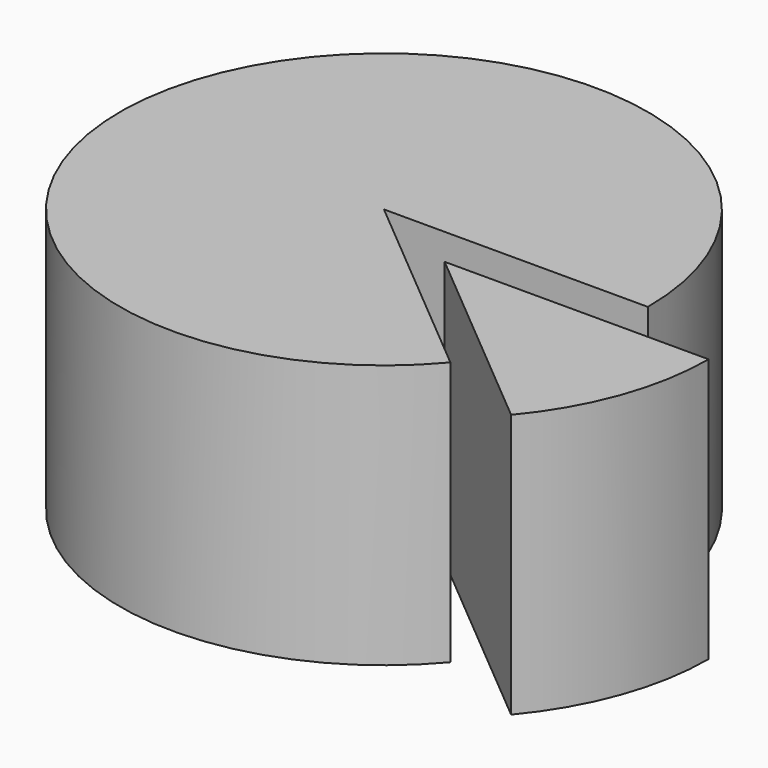
from build123d import *

# Parameters (mm, degrees)
CYLINDER_W        = 20
CYLINDER_H        = 20
CYLINDER_ANGLE    = 320
CYLINDER001_W     = 20
CYLINDER001_H     = 20
CYLINDER001_ANGLE = 320
CYLINDER002_R     = 20
CYLINDER002_DEPTH = 20


with BuildPart() as obj1:
    # Cylinder → Cylinder (revolve)
    with BuildSketch(Plane.XZ):
        with Locations((10, 10)):
            Rectangle(CYLINDER_W, CYLINDER_H)
    revolve(axis=Axis((0, 0, 0), (0, 0, 1)), revolution_arc=CYLINDER_ANGLE)


with BuildPart() as obj2:
    # Cylinder001 → Cylinder001 (revolve)
    with BuildSketch(Plane(origin=(7, -3, 0), x_dir=(1, 0, 0), z_dir=(0, -1, 0))):
        with Locations((10, 10)):
            Rectangle(CYLINDER001_W, CYLINDER001_H)
    revolve(axis=Axis((7, -3, 0), (0, 0, 1)), revolution_arc=CYLINDER001_ANGLE)


with BuildPart() as obj3:
    # Cylinder002 → Cylinder002 (new body)
    with BuildSketch(Plane(origin=(7, -3, 0), x_dir=(1, 0, 0), z_dir=(0, 0, 1))):
        Circle(CYLINDER002_R)
    extrude(amount=CYLINDER002_DEPTH)

    # Cut: cut obj2
    add(obj2.part, mode=Mode.SUBTRACT)


solid = Compound([obj1.part, obj3.part])
